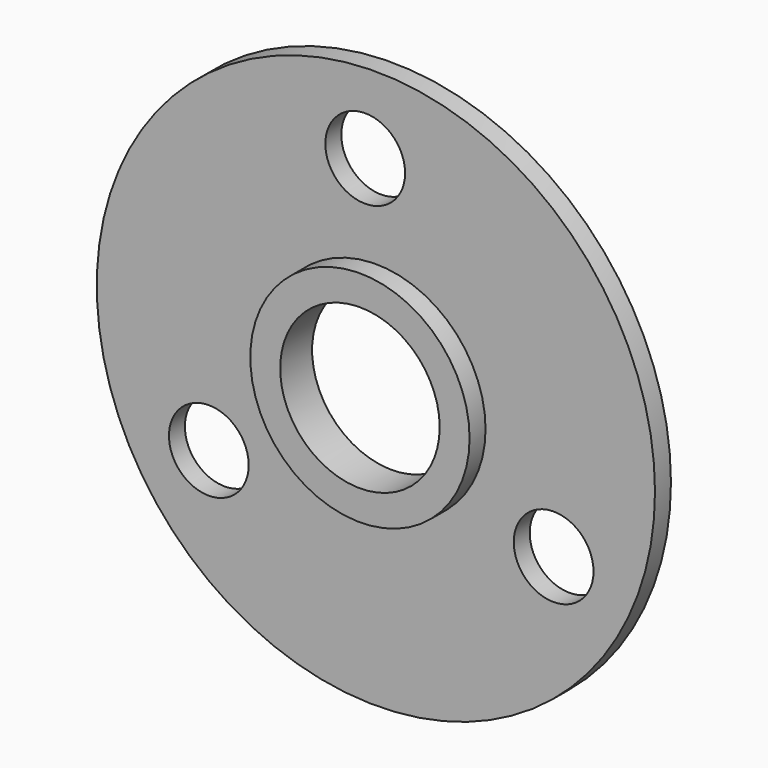
from build123d import *

# Parameters (mm, degrees)
F0_R     = 88.9
F0_R_2   = 12.7
F0_R_3   = 34.925
F1_DEPTH = 6.35
F0_R_4   = 25.4
F2_DEPTH = 12.7


with BuildPart() as f1:
    # F0 (on Front) → F1 (new body)
    with BuildSketch(Plane.XZ):
        Circle(F0_R)
        with Locations((-53.213072, -34.649949)):
            Circle(F0_R_2, mode=Mode.SUBTRACT)
        with Locations((56.614272, -28.758897)):
            Circle(F0_R_2, mode=Mode.SUBTRACT)
        with Locations((-3.401201, 63.408847)):
            Circle(F0_R_2, mode=Mode.SUBTRACT)
        Circle(F0_R_3, mode=Mode.SUBTRACT)
        Circle(F0_R)
        with Locations((-53.213072, -34.649949)):
            Circle(F0_R_2, mode=Mode.SUBTRACT)
        with Locations((56.614272, -28.758897)):
            Circle(F0_R_2, mode=Mode.SUBTRACT)
        with Locations((-3.401201, 63.408847)):
            Circle(F0_R_2, mode=Mode.SUBTRACT)
        Circle(F0_R_3, mode=Mode.SUBTRACT)
    extrude(amount=F1_DEPTH)

    # F0 (on Front) → F2 (join)
    with BuildSketch(Plane.XZ):
        Circle(F0_R_3)
        Circle(F0_R_4, mode=Mode.SUBTRACT)
    extrude(amount=F2_DEPTH)


solid = f1.part
